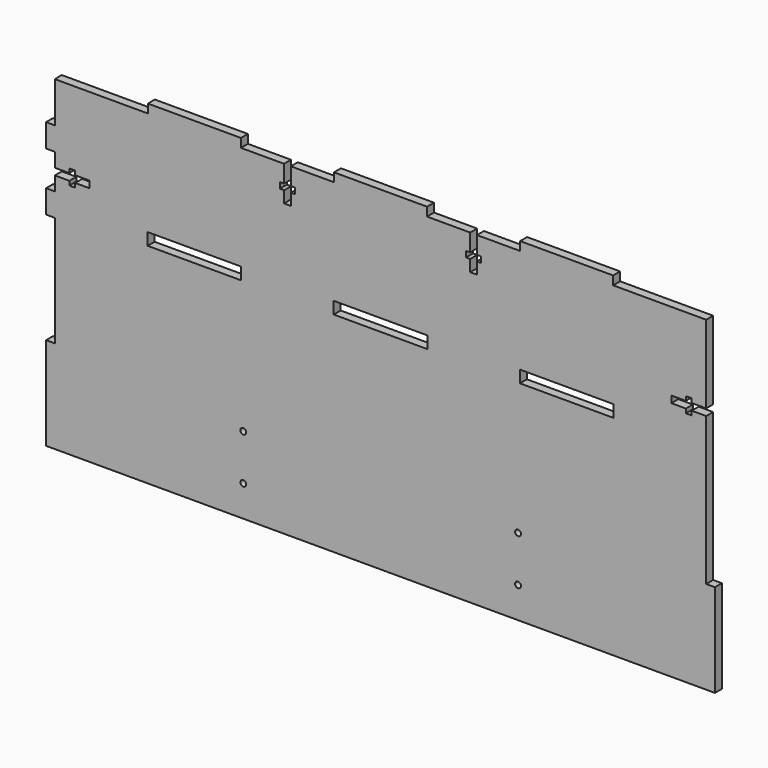
from build123d import *

# Parameters (mm, degrees)
F0_R     = 1.5875
F0_W     = 51.054
F0_H     = 6.604
F0_W_2   = 4.7625
F0_H_2   = 50.8
F0_W_3   = 50.8
F0_H_3   = 4.7625
F0_H_4   = 12.7
F1_DEPTH = 4.7625


with BuildPart() as f1:
    # F0 (on Front) → F1 (new body)
    with BuildSketch(Plane.XZ):
        Polygon((-127, 88.9), (-177.8, 88.9), (-177.8, 66.675), (-177.8, 53.975), (-177.8, 46.2915), (-169.8625, 46.2915), (-169.8625, 48.5775), (-166.6875, 48.5775), (-166.6875, 46.2915), (-158.75, 46.2915), (-158.75, 42.6085), (-166.6875, 42.6085), (-166.6875, 40.3225), (-169.8625, 40.3225), (-169.8625, 42.6085), (-177.8, 42.6085), (-177.8, 34.925), (-177.8, 22.225), (-177.8, -38.1), (-177.8, -88.9), (177.8, -88.9), (177.8, -38.1), (177.8, 22.225), (177.8, 34.925), (177.8, 42.6085), (169.8625, 42.6085), (169.8625, 40.3225), (166.6875, 40.3225), (166.6875, 42.6085), (158.75, 42.6085), (158.75, 46.2915), (166.6875, 46.2915), (166.6875, 48.5775), (169.8625, 48.5775), (169.8625, 46.2915), (177.8, 46.2915), (177.8, 53.975), (177.8, 66.675), (177.8, 88.9), (127, 88.9), (76.2, 88.9), (52.6415, 88.9), (52.6415, 79.375), (54.9275, 79.375), (54.9275, 76.2), (52.6415, 76.2), (52.6415, 69.85), (48.9585, 69.85), (48.9585, 76.2), (46.6725, 76.2), (46.6725, 79.375), (48.9585, 79.375), (48.9585, 88.9), (25.4, 88.9), (-25.4, 88.9), (-48.9585, 88.9), (-48.9585, 79.375), (-46.6725, 79.375), (-46.6725, 76.2), (-48.9585, 76.2), (-48.9585, 69.85), (-52.6415, 69.85), (-52.6415, 76.2), (-54.9275, 76.2), (-54.9275, 79.375), (-52.6415, 79.375), (-52.6415, 88.9), (-76.2, 88.9), align=None)
        with Locations((-74.93101, -71.925)):
            Circle(F0_R, mode=Mode.SUBTRACT)
        with Locations((-74.93101, -46.925)):
            Circle(F0_R, mode=Mode.SUBTRACT)
        with Locations((75.06899, -71.925)):
            Circle(F0_R, mode=Mode.SUBTRACT)
        with Locations((75.06899, -46.925)):
            Circle(F0_R, mode=Mode.SUBTRACT)
        with Locations((-101.6, 28.575)):
            Rectangle(F0_W, F0_H, mode=Mode.SUBTRACT)
        with Locations((0, 28.575)):
            Rectangle(F0_W, F0_H, mode=Mode.SUBTRACT)
        with Locations((101.6, 28.575)):
            Rectangle(F0_W, F0_H, mode=Mode.SUBTRACT)
        with Locations((180.18125, -63.5)):
            Rectangle(F0_W_2, F0_H_2)
        with Locations((-180.18125, -63.5)):
            Rectangle(F0_W_2, F0_H_2)
        with Locations((-101.6, 91.28125)):
            Rectangle(F0_W_3, F0_H_3)
        with Locations((0, 91.28125)):
            Rectangle(F0_W_3, F0_H_3)
        with Locations((101.6, 91.28125)):
            Rectangle(F0_W_3, F0_H_3)
        with Locations((-180.18125, 60.325)):
            Rectangle(F0_W_2, F0_H_4)
        with Locations((-180.18125, 28.575)):
            Rectangle(F0_W_2, F0_H_4)
    extrude(amount=F1_DEPTH)


solid = f1.part
